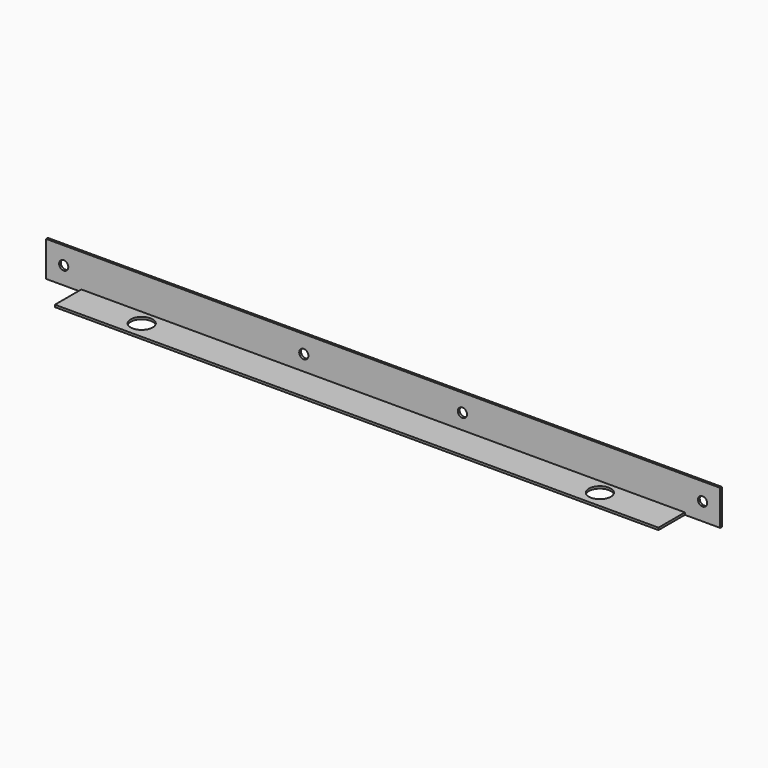
from build123d import *

# Parameters (mm, degrees)
F1_DEPTH = 242.8875
F2_R     = 7.9375
F2_W     = 25.4
F2_H     = 23.8125
F4_DEPTH = 25.4
F3_R     = 3.302
F5_DEPTH = 25.4


with BuildPart() as f1:
    # F0 (on Right) → F1 (new body, symmetric)
    with BuildSketch(Plane.YZ):
        Polygon((0, 0), (0, 25.4), (-1.5875, 25.4), (-1.5875, 1.5875), (-25.4, 1.5875), (-25.4, 0), align=None)
    extrude(amount=F1_DEPTH, both=True)

    # F2 (on face) → F4 (cut)
    with BuildSketch(Plane(origin=(0, 0, 0), x_dir=(1, 0, 0), z_dir=(0, 0, -1))):
        with Locations((-165.1, 12.7)):
            Circle(F2_R)
        with Locations((165.1, 12.7)):
            Circle(F2_R)
        with Locations((-230.1875, 13.49375)):
            Rectangle(F2_W, F2_H)
        with Locations((230.1875, 13.49375)):
            Rectangle(F2_W, F2_H)
    extrude(amount=-F4_DEPTH, mode=Mode.SUBTRACT)

    # F3 (on face) → F5 (cut)
    with BuildSketch(Plane.XZ.offset(1.5875)):
        with Locations((-230.1875, 12.7)):
            Circle(F3_R)
        with Locations((230.1875, 12.7)):
            Circle(F3_R)
        with Locations((-57.15, 12.7)):
            Circle(F3_R)
        with Locations((57.15, 12.7)):
            Circle(F3_R)
    extrude(amount=-F5_DEPTH, mode=Mode.SUBTRACT)


solid = f1.part
